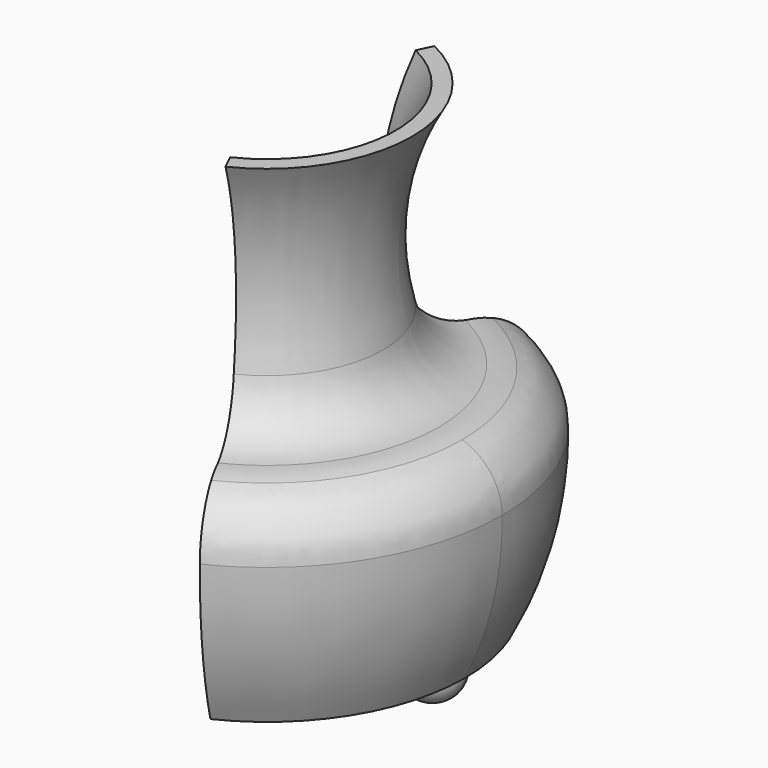
from build123d import *

# Parameters (mm, degrees)
F1_ANGLE = 128.431819
F2_R     = 12.7
F3_R     = 6.35
F4_DEPTH = 6.35
F5_R     = 5.842


with BuildPart() as f1:
    # F0 (on Front) → F1 (revolve, symmetric)
    with BuildSketch(Plane.XZ) as f1_sk:
        with BuildLine():
            Line((0, 3.803344), (0, 0))
            Line((0, 0), (44.595737, 0))
            ThreePointArc((44.595737, 0), (51.598835, 19.948952), (52.667361, 41.064404))
            ThreePointArc((52.667361, 41.064404), (46.444255, 46.055297), (38.652573, 47.765777))
            ThreePointArc((38.652573, 47.765777), (30.501858, 51.290272), (26.174091, 59.04441))
            ThreePointArc((26.174091, 59.04441), (24.968043, 81.890542), (32.653302, 103.439026))
            Line((32.653302, 103.439026), (28.97153, 103.439026))
            ThreePointArc((28.97153, 103.439026), (22.44019, 81.38567), (24.050664, 58.44193))
            ThreePointArc((24.050664, 58.44193), (29.180601, 49.206171), (38.813263, 44.867128))
            ThreePointArc((38.813263, 44.867128), (44.498632, 43.552613), (49.333733, 40.285632))
            ThreePointArc((49.333733, 40.285632), (48.862981, 21.585272), (43.055389, 3.803344))
            Line((43.055389, 3.803344), (0, 3.803344))
        make_face()
    revolve(axis=Axis((0, 0, 1.901672), (0, 0, -1)), revolution_arc=F1_ANGLE / 2)
    revolve(f1_sk.sketch, axis=Axis((0, 0, 1.901672), (0, 0, 1)), revolution_arc=F1_ANGLE / 2)

    # F2
    f2_edges = [f1.edges().sort_by_distance(p)[0] for p in [
        (44.61179, -27.993555, 41.064404),
    ]]
    fillet(f2_edges, radius=F2_R)

    # F3 (on face) → F4 (join)
    with BuildSketch(Plane(origin=(0, 0, 0), x_dir=(1, 0, 0), z_dir=(0, 0, -1))):
        with Locations((37.261488, 0)):
            Circle(F3_R)
    extrude(amount=F4_DEPTH)

    # F5
    f5_edges = [f1.edges().sort_by_distance(p)[0] for p in [
        (30.911488, 0, -6.35),
    ]]
    fillet(f5_edges, radius=F5_R)


solid = f1.part
